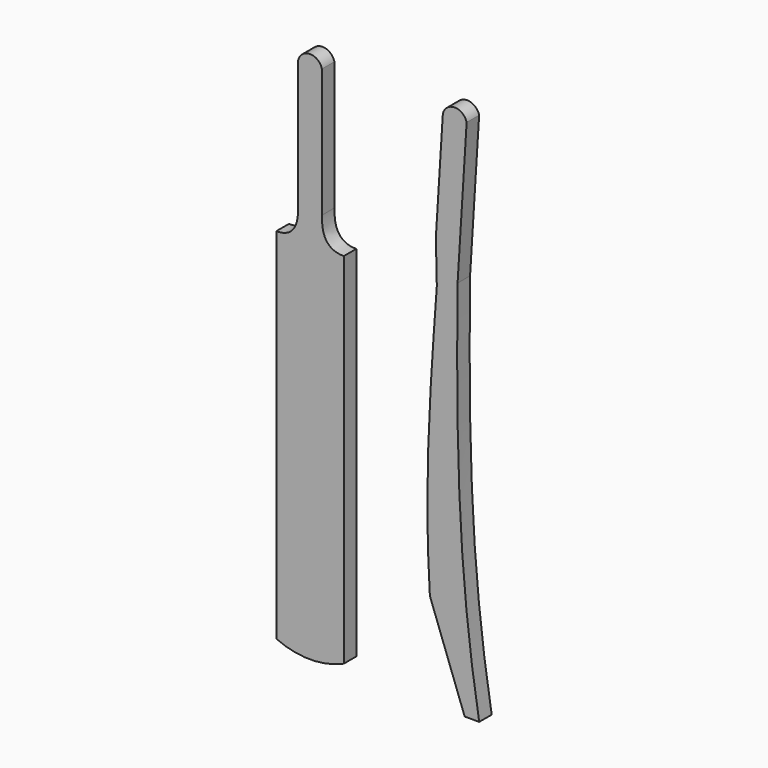
from build123d import *

# Parameters (mm, degrees)
F1_DEPTH = 25


with BuildPart() as f1:
    # F0 (on Front) → F1 (new body)
    with BuildSketch(Plane.XZ):
        with BuildLine():
            Line((-56.763389, 585.838145), (-56.763389, 11.561857))
            ThreePointArc((-56.763389, 11.561857), (-2.763389, 0), (51.236611, 11.561857))
            Line((51.236611, 11.561857), (51.236611, 585.838145))
            add(Edge.make_bspline(
                [(51.236611, 585.838145), (17.103309, 585.720658), (16.236611, 615.647614), (16.236611, 632.078111)],
                knots=[0, 0, 0, 0, 57.992538, 57.992538, 57.992538, 57.992538], degree=3))
            Line((16.236611, 632.078111), (16.236611, 838.129222))
            ThreePointArc((16.236611, 838.129222), (-2.763389, 852.996262), (-21.763389, 838.129222))
            Line((-21.763389, 838.129222), (-21.763389, 632.078111))
            add(Edge.make_bspline(
                [(-56.763389, 585.838145), (-22.630086, 585.720658), (-21.763389, 615.647614), (-21.763389, 632.078111)],
                knots=[0, 0, 0, 0, 57.992538, 57.992538, 57.992538, 57.992538], degree=3))
        make_face()
        with BuildLine():
            Line((244.669899, 0), (267.965019, 0))
            add(Edge.make_bspline(
                [(267.965019, 0), (235.536397, 191.757724), (230.556713, 365.641733), (233.348013, 607.09085)],
                knots=[0, 0, 0, 0, 608.077, 608.077, 608.077, 608.077], degree=3))
            Line((233.348013, 607.09085), (247.850791, 838.129222))
            ThreePointArc((247.850791, 838.129222), (228.813394, 852.996262), (209.775998, 838.129222))
            Line((209.775998, 838.129222), (198.599619, 660.082468))
            Line((198.599619, 660.082468), (200.133637, 592.074513))
            add(Edge.make_bspline(
                [(188.988328, 152.030081), (179.173097, 300.561041), (189.277947, 444.535911), (200.133637, 592.074513)],
                knots=[0, 0, 0, 0, 440.185553, 440.185553, 440.185553, 440.185553], degree=3))
            Line((188.988328, 152.030081), (244.669899, 0))
        make_face()
    extrude(amount=F1_DEPTH)


solid = f1.part
